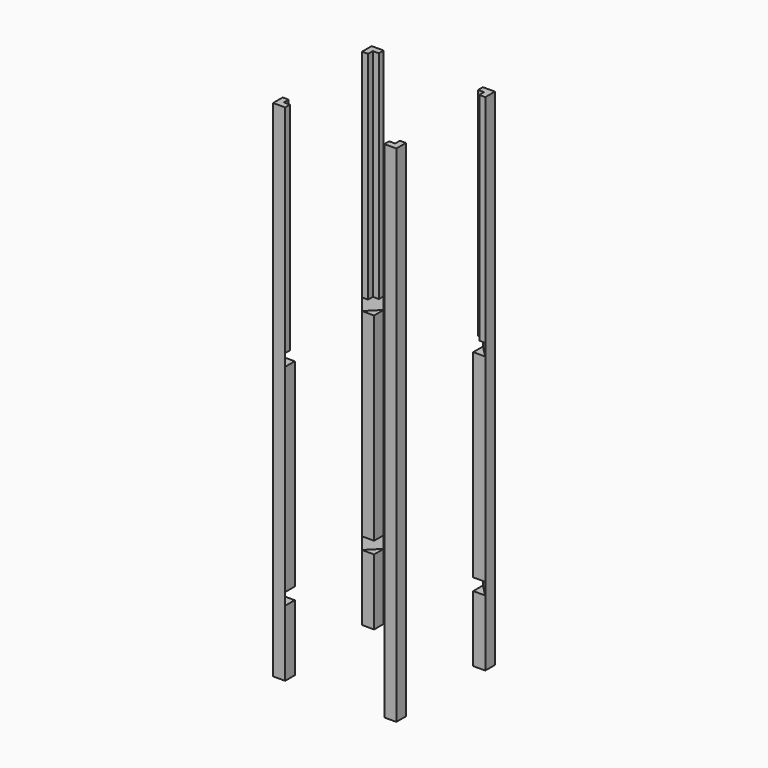
from build123d import *

# Parameters (mm, degrees)
F0_W          = 25.4
F0_H          = 25.4
F1_DEPTH      = 2133.6
F4_DEPTH      = 25.4
F4_DEPTH_BACK = 25.4
F7_DEPTH      = 25.4
F7_DEPTH_BACK = 25.4
F9_W          = 25.4
F9_H          = 25.4
F10_DEPTH     = 914.4


with BuildPart() as f1:
    # F0 (on Top) → F1 (new body)
    with BuildSketch(Plane.XY):
        Polygon((25.4, 0), (0, 0), (0, 25.4), (-25.4, 25.4), (-25.4, -25.4), (25.4, -25.4), align=None)
        with Locations((12.7, 12.7)):
            Rectangle(F0_W, F0_H)
    extrude(amount=F1_DEPTH)


with BuildPart() as f1b:
    # F0 (on Top) → F1, piece 2 (new body)
    with BuildSketch(Plane.XY):
        Polygon((-25.4, 444.5), (0, 444.5), (0, 469.9), (25.4, 469.9), (25.4, 495.3), (-25.4, 495.3), align=None)
        with Locations((12.7, 457.2)):
            Rectangle(F0_W, F0_H)
    extrude(amount=F1_DEPTH)


with BuildPart() as f1c:
    # F0 (on Top) → F1, piece 3 (new body)
    with BuildSketch(Plane.XY):
        Polygon((469.9, 469.9), (469.9, 444.5), (495.3, 444.5), (495.3, 495.3), (444.5, 495.3), (444.5, 469.9), align=None)
        with Locations((457.2, 457.2)):
            Rectangle(F0_W, F0_H)
    extrude(amount=F1_DEPTH)


with BuildPart() as f1d:
    # F0 (on Top) → F1, piece 4 (new body)
    with BuildSketch(Plane.XY):
        Polygon((469.9, 0), (444.5, 0), (444.5, -25.4), (495.3, -25.4), (495.3, 25.4), (469.9, 25.4), align=None)
        with Locations((457.2, 12.7)):
            Rectangle(F0_W, F0_H)
    extrude(amount=F1_DEPTH)


with BuildPart() as f4_tool:
    # F3 (on offset) → F4 (new body, two sides)
    with BuildSketch(Plane.XY.offset(304.8)) as f4_sk:
        Polygon((457.2, 457.2), (444.5, 444.5), (469.9, 444.5), align=None)
        Polygon((444.5, 469.9), (444.5, 444.5), (457.2, 457.2), align=None)
        Polygon((12.7, 12.7), (25.4, 0), (25.4, 25.4), align=None)
        Polygon((25.4, 25.4), (0, 25.4), (12.7, 12.7), align=None)
        Polygon((444.5, 25.4), (444.5, 0), (469.9, 25.4), align=None)
        Polygon((469.9, 0), (444.5, 0), (444.5, -25.4), align=None)
        Polygon((469.9, 25.4), (444.5, 0), (469.9, 0), align=None)
        Polygon((469.9, 25.4), (469.9, 0), (495.3, 25.4), align=None)
        Polygon((25.4, 0), (0, 0), (25.4, -25.4), align=None)
        Polygon((12.7, 12.7), (0, 0), (25.4, 0), align=None)
        Polygon((0, 25.4), (0, 0), (12.7, 12.7), align=None)
        Polygon((-25.4, 25.4), (0, 0), (0, 25.4), align=None)
        Polygon((0, 469.9), (0, 444.5), (25.4, 469.9), align=None)
        Polygon((25.4, 495.3), (0, 469.9), (25.4, 469.9), align=None)
        Polygon((-25.4, 444.5), (0, 444.5), (0, 469.9), align=None)
        Polygon((25.4, 469.9), (0, 444.5), (25.4, 444.5), align=None)
        Polygon((444.5, 495.3), (444.5, 469.9), (469.9, 469.9), align=None)
        Polygon((469.9, 469.9), (469.9, 444.5), (495.3, 444.5), align=None)
        Polygon((457.2, 457.2), (469.9, 444.5), (469.9, 469.9), align=None)
        Polygon((469.9, 469.9), (444.5, 469.9), (457.2, 457.2), align=None)
    extrude(amount=-F4_DEPTH)
    extrude(f4_sk.sketch, amount=F4_DEPTH_BACK)


with BuildPart() as f1_1:
    add(f1.part)

    # F4: cut by f4_tool
    add(f4_tool.part, mode=Mode.SUBTRACT)


with BuildPart() as f1b_1:
    add(f1b.part)

    # F4: cut by f4_tool
    add(f4_tool.part, mode=Mode.SUBTRACT)


with BuildPart() as f1c_1:
    add(f1c.part)

    # F4: cut by f4_tool
    add(f4_tool.part, mode=Mode.SUBTRACT)


with BuildPart() as f1d_1:
    add(f1d.part)

    # F4: cut by f4_tool
    add(f4_tool.part, mode=Mode.SUBTRACT)


with BuildPart() as f7_tool:
    # F6 (on offset) → F7 (new body, two sides)
    with BuildSketch(Plane.XY.offset(1193.8)) as f7_sk:
        Polygon((444.5, 444.5), (469.9, 444.5), (444.5, 469.9), align=None)
        Polygon((444.5, 25.4), (444.5, 0), (469.9, 25.4), align=None)
        Polygon((0, 25.4), (25.4, 0), (25.4, 25.4), align=None)
        Polygon((-25.4, 444.5), (0, 444.5), (0, 469.9), align=None)
        Polygon((25.4, 495.3), (0, 469.9), (25.4, 469.9), align=None)
        Polygon((0, 469.9), (0, 444.5), (25.4, 469.9), align=None)
        Polygon((25.4, 469.9), (0, 444.5), (25.4, 444.5), align=None)
        Polygon((444.5, 495.3), (444.5, 469.9), (469.9, 469.9), align=None)
        Polygon((444.5, 469.9), (469.9, 444.5), (469.9, 469.9), align=None)
        Polygon((469.9, 469.9), (469.9, 444.5), (495.3, 444.5), align=None)
        Polygon((469.9, 25.4), (469.9, 0), (495.3, 25.4), align=None)
        Polygon((469.9, 25.4), (444.5, 0), (469.9, 0), align=None)
        Polygon((469.9, 0), (444.5, 0), (444.5, -25.4), align=None)
        Polygon((25.4, 0), (0, 0), (25.4, -25.4), align=None)
        Polygon((0, 25.4), (0, 0), (25.4, 0), align=None)
        Polygon((-25.4, 25.4), (0, 0), (0, 25.4), align=None)
    extrude(amount=F7_DEPTH)
    extrude(f7_sk.sketch, amount=-F7_DEPTH_BACK)


with BuildPart() as f1_2:
    add(f1_1.part)

    # F7: cut by f7_tool
    add(f7_tool.part, mode=Mode.SUBTRACT)


with BuildPart() as f1b_2:
    add(f1b_1.part)

    # F7: cut by f7_tool
    add(f7_tool.part, mode=Mode.SUBTRACT)


with BuildPart() as f1c_2:
    add(f1c_1.part)

    # F7: cut by f7_tool
    add(f7_tool.part, mode=Mode.SUBTRACT)


with BuildPart() as f1d_2:
    add(f1d_1.part)

    # F7: cut by f7_tool
    add(f7_tool.part, mode=Mode.SUBTRACT)


with BuildPart() as f10_tool:
    # F9 (on offset) → F10 (new body)
    with BuildSketch(Plane.XY.offset(1219.2)):
        with Locations((12.7, 12.7)):
            Rectangle(F9_W, F9_H)
        with Locations((12.7, 457.2)):
            Rectangle(F9_W, F9_H)
        with Locations((457.2, 457.2)):
            Rectangle(F9_W, F9_H)
        with Locations((457.2, 12.7)):
            Rectangle(F9_W, F9_H)
    extrude(amount=F10_DEPTH)


with BuildPart() as f1_3:
    add(f1_2.part)

    # F10: cut by f10_tool
    add(f10_tool.part, mode=Mode.SUBTRACT)


with BuildPart() as f1b_3:
    add(f1b_2.part)

    # F10: cut by f10_tool
    add(f10_tool.part, mode=Mode.SUBTRACT)


with BuildPart() as f1c_3:
    add(f1c_2.part)

    # F10: cut by f10_tool
    add(f10_tool.part, mode=Mode.SUBTRACT)


with BuildPart() as f1d_3:
    add(f1d_2.part)

    # F10: cut by f10_tool
    add(f10_tool.part, mode=Mode.SUBTRACT)


solid = Compound([f1_3.part, f1b_3.part, f1c_3.part, f1d_3.part])
